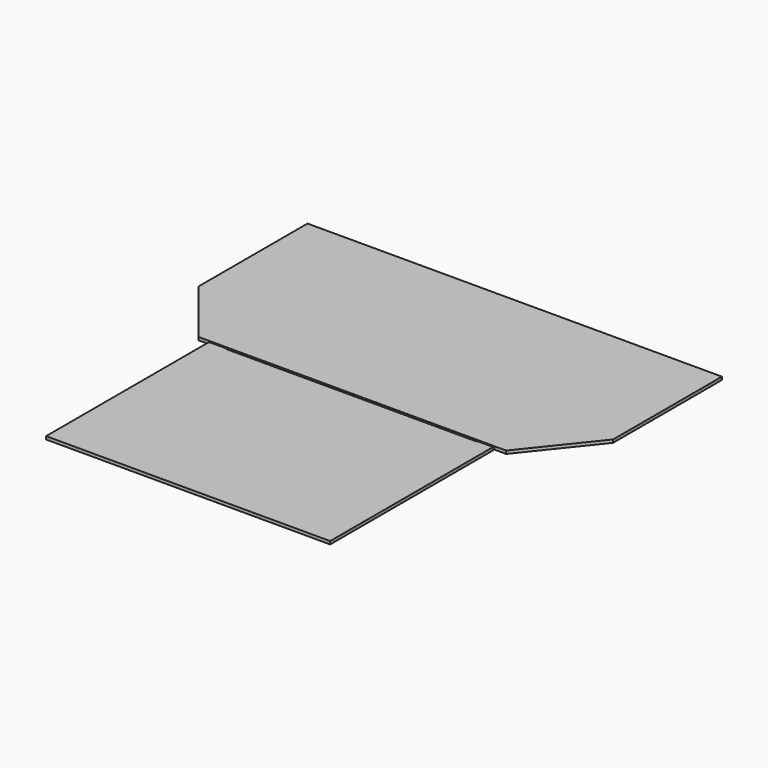
from build123d import *

# Parameters (mm, degrees)
F0_W     = 850
F0_H     = 607
F1_DEPTH = 9
F2_W     = 1240
F2_H     = 607
F3_DEPTH = 9
F5_DEPTH = 9
F6_R     = 3.75
F7_DEPTH = 50


with BuildPart() as f1:
    # F0 (on Top) → F1 (new body)
    with BuildSketch(Plane.XY):
        with Locations((425, 303.5)):
            Rectangle(F0_W, F0_H)
    extrude(amount=F1_DEPTH)



with BuildPart() as f3:
    # F2 (on Top) → F3 (new body)
    with BuildSketch(Plane.XY):
        with Locations((425, 918)):
            Rectangle(F2_W, F2_H)
    extrude(amount=F3_DEPTH)

    # F4 (on face) → F5 (cut)
    with BuildSketch(Plane.XY.offset(9)):
        Polygon((-195, 814.5), (-195, 614.5), (-35, 614.5), align=None)
        Polygon((885, 614.5), (1045, 614.5), (1045, 814.5), align=None)
    extrude(amount=-F5_DEPTH, mode=Mode.SUBTRACT)


with BuildPart() as f1_1:
    add(f1.part)

    add(f3.part)  # F7 merges F3
    # F6 (on face) → F7 (join)
    with BuildSketch(Plane.YZ.offset(850)):
        with Locations((610.75, 3.75)):
            Circle(F6_R)
    extrude(amount=-F7_DEPTH)

    # F9: F1 across plane


with BuildPart() as f1_2:
    add(f1_1.part)
    add(f1_1.part.mirror(Plane(origin=(425, 303.5, 4.5), x_dir=(0, 1, 0), z_dir=(1, 0, 0))))


solid = f1_2.part
